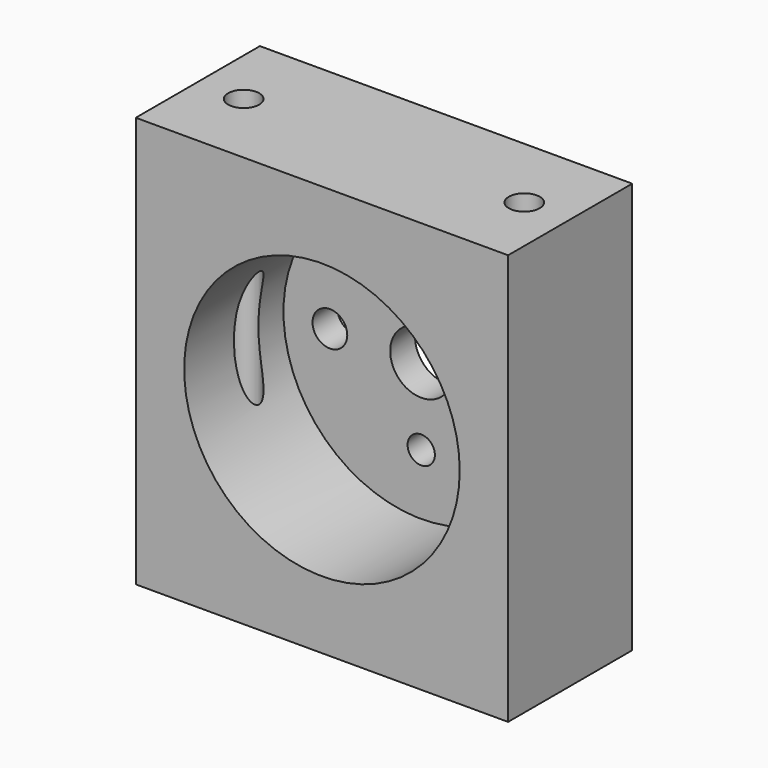
from build123d import *

# Parameters (mm, degrees)
F0_W     = 38.1
F0_H     = 42.037
F1_DEPTH = 15.875
F2_R     = 3.175
F3_DEPTH = 15.876
F4_R     = 14.097
F5_DEPTH = 12.7
F6_R     = 1.397
F6_R_2   = 1.778
F7_DEPTH = 3.176
F8_R     = 1.5875
F9_DEPTH = 42.038


with BuildPart() as f1:
    # F0 (on Front) → F1 (new body)
    with BuildSketch(Plane.XZ):
        Rectangle(F0_W, F0_H)
    extrude(amount=F1_DEPTH)

    # F2 (on face) → F3 (cut, through all)
    with BuildSketch(Plane.XZ.offset(15.875)):
        Circle(F2_R)
    extrude(amount=-F3_DEPTH, mode=Mode.SUBTRACT)

    # F4 (on face) → F5 (cut)
    with BuildSketch(Plane.XZ.offset(15.875)):
        Circle(F4_R)
    extrude(amount=-F5_DEPTH, mode=Mode.SUBTRACT)

    # F6 (on face) → F7 (cut, through all)
    with BuildSketch(Plane.XZ.offset(3.175)):
        with Locations((0, 7.874)):
            Circle(F6_R)
        with Locations((-9.3472, 0)):
            Circle(F6_R_2)
        with Locations((0, -7.874)):
            Circle(F6_R)
        with Locations((9.3472, 0)):
            Circle(F6_R_2)
    extrude(amount=-F7_DEPTH, mode=Mode.SUBTRACT)

    # F8 (on face) → F9 (cut, through all)
    with BuildSketch(Plane(origin=(0, 0, -21.0185), x_dir=(1, 0, 0), z_dir=(0, 0, -1))):
        with Locations((-14.351, 7.9502)):
            Circle(F8_R)
        with Locations((14.351, 7.9375)):
            Circle(F8_R)
    extrude(amount=-F9_DEPTH, mode=Mode.SUBTRACT)


solid = f1.part
